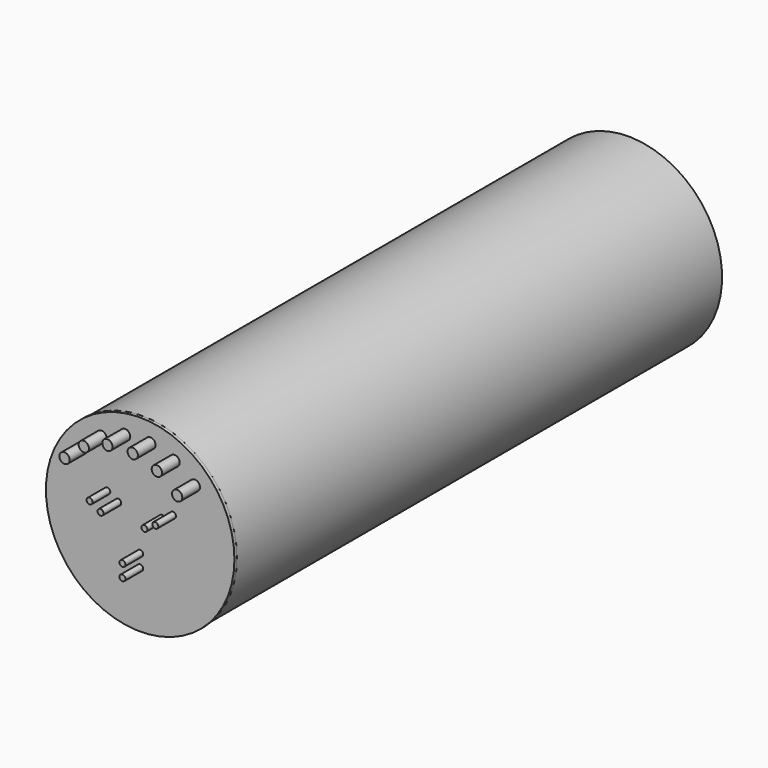
from build123d import *

# Parameters (mm, degrees)
F0_R     = 189.23
F0_R_2   = 5.9944
F0_R_3   = 10.3251
F1_DEPTH = 6.35
F2_R     = 8.255
F3_DEPTH = 6.35
F4_R     = 5.9944
F5_DEPTH = 50.8
F6_R     = 10.3251
F7_DEPTH = 50.8
F8_R     = 187.779012
F9_DEPTH = 1219.2


with BuildPart() as f1:
    # F0 (on Front) → F1 (new body)
    with BuildSketch(Plane.XZ):
        Circle(F0_R)
        with Locations((0, -76.1619)):
            Circle(F0_R_2, mode=Mode.SUBTRACT)
        with Locations((0, -50.7619)):
            Circle(F0_R_2, mode=Mode.SUBTRACT)
        with Locations((-65.95814, 38.08095)):
            Circle(F0_R_2, mode=Mode.SUBTRACT)
        with Locations((-43.961095, 25.38095)):
            Circle(F0_R_2, mode=Mode.SUBTRACT)
        with Locations((-116.307379, 97.593479)):
            Circle(F0_R_3, mode=Mode.SUBTRACT)
        with Locations((-77.603697, 130.497355)):
            Circle(F0_R_3, mode=Mode.SUBTRACT)
        with Locations((-30.212348, 148.792162)):
            Circle(F0_R_3, mode=Mode.SUBTRACT)
        with Locations((43.961095, 25.38095)):
            Circle(F0_R_2, mode=Mode.SUBTRACT)
        with Locations((65.95814, 38.08095)):
            Circle(F0_R_2, mode=Mode.SUBTRACT)
        with Locations((69.056765, 135.214853)):
            Circle(F0_R_3, mode=Mode.SUBTRACT)
        with Locations((20.587652, 150.426201)):
            Circle(F0_R_3, mode=Mode.SUBTRACT)
        with Locations((109.795031, 104.866317)):
            Circle(F0_R_3, mode=Mode.SUBTRACT)
    extrude(amount=F1_DEPTH)


with BuildPart() as f3:
    # F2 (on face) → F3 (new body)
    with BuildSketch(Plane(origin=(0, 0, 0), x_dir=(-1, 0, 0), z_dir=(0, 1, 0))):
        with Locations((-65.95814, 38.08095)):
            Circle(F2_R)
        with Locations((-43.961095, 25.38095)):
            Circle(F2_R)
        with Locations((43.961095, 25.38095)):
            Circle(F2_R)
        with Locations((65.95814, 38.08095)):
            Circle(F2_R)
        with Locations((0, -50.7619)):
            Circle(F2_R)
        with Locations((0, -76.1619)):
            Circle(F2_R)
    extrude(amount=F3_DEPTH)


with BuildPart() as f5:
    # F4 (on face) → F5 (new body)
    with BuildSketch(Plane.XZ):
        with Locations((0, -76.1619)):
            Circle(F4_R)
        with Locations((0, -50.7619)):
            Circle(F4_R)
        with Locations((-43.961095, 25.38095)):
            Circle(F4_R)
        with Locations((-65.95814, 38.08095)):
            Circle(F4_R)
        with Locations((43.961095, 25.38095)):
            Circle(F4_R)
        with Locations((65.95814, 38.08095)):
            Circle(F4_R)
    extrude(amount=F5_DEPTH)


with BuildPart() as f7:
    # F6 (on face) → F7 (new body)
    with BuildSketch(Plane(origin=(0, 0, 0), x_dir=(-1, 0, 0), z_dir=(0, 1, 0))):
        with Locations((-109.795031, 104.866317)):
            Circle(F6_R)
        with Locations((-69.056765, 135.214853)):
            Circle(F6_R)
        with Locations((-20.587652, 150.426201)):
            Circle(F6_R)
        with Locations((30.212348, 148.792162)):
            Circle(F6_R)
        with Locations((77.603697, 130.497355)):
            Circle(F6_R)
        with Locations((116.307379, 97.593479)):
            Circle(F6_R)
    extrude(amount=-F7_DEPTH)


with BuildPart() as f9:
    # F8 (on face) → F9 (new body)
    with BuildSketch(Plane(origin=(0, 0, 0), x_dir=(-1, 0, 0), z_dir=(0, 1, 0))):
        Circle(F8_R)
    extrude(amount=F9_DEPTH)


solid = Compound([f1.part, f3.part, f5.part, f7.part, f9.part])
